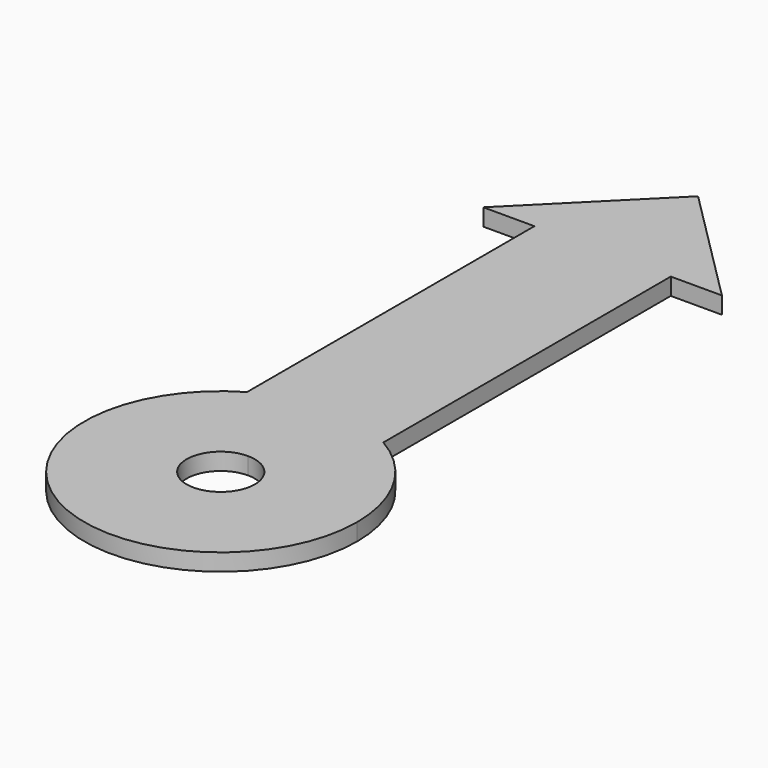
from build123d import *

# Parameters (mm, degrees)
F1_DEPTH = 1


with BuildPart() as f1:
    # F0 (on Top) → F1 (new body)
    with BuildSketch(Plane.XY):
        with BuildLine():
            ThreePointArc((-4, 6.928203), (-2.070552, 7.727407), (0, 8))
            Line((0, 8), (0, 35))
            Line((0, 35), (-7, 28))
            Line((-7, 28), (-4, 28))
            Line((-4, 28), (-4, 6.928203))
        make_face()
        with BuildLine():
            Line((0, 35), (0, 8))
            ThreePointArc((0, 8), (2.070552, 7.727407), (4, 6.928203))
            Line((4, 6.928203), (4, 28))
            Line((4, 28), (7, 28))
            Line((7, 28), (0, 35))
        make_face()
        with BuildLine():
            ThreePointArc((4, 6.928203), (2.070552, 7.727407), (0, 8))
            ThreePointArc((0, 8), (-2.070552, 7.727407), (-4, 6.928203))
            ThreePointArc((-4, 6.928203), (-4, -6.928203), (8, 0))
            ThreePointArc((8, 0), (6.928203, 4), (4, 6.928203))
        make_face()
        with BuildLine():
            ThreePointArc((0, 2), (1.414214, 1.414214), (2, 0))
            ThreePointArc((2, 0), (-1.414214, -1.414214), (0, 2))
        make_face(mode=Mode.SUBTRACT)
    extrude(amount=F1_DEPTH)


solid = f1.part
